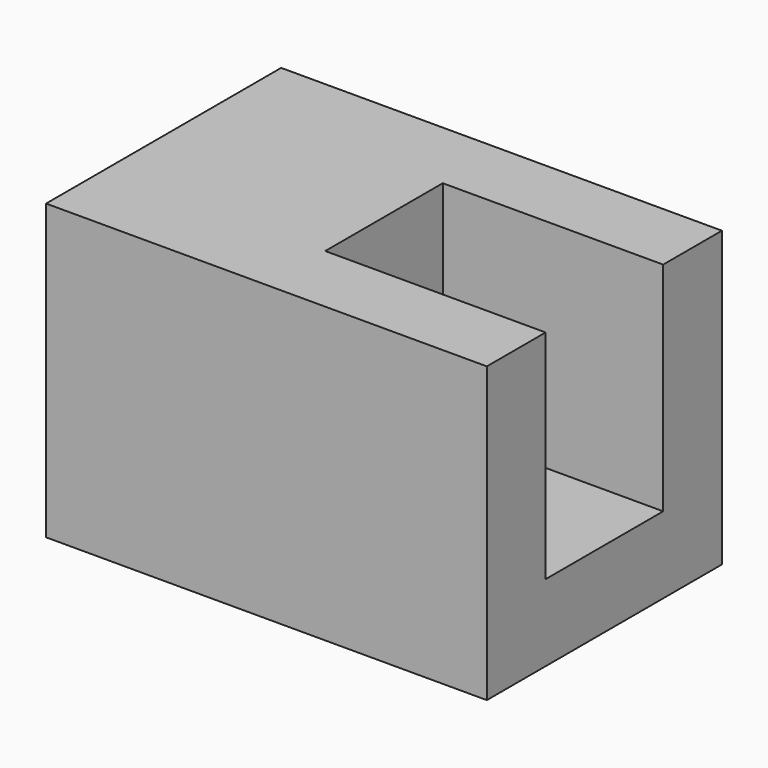
from build123d import *

# Parameters (mm, degrees)
F0_W     = 38.1
F0_H     = 25.4
F1_DEPTH = 25.4
F2_W     = 12.7
F2_H     = 19.05
F3_DEPTH = 19.05
F4_ANGLE = 180


with BuildPart() as f1:
    # F0 (on Top) → F1 (new body)
    with BuildSketch(Plane.XY):
        with Locations((19.05, 12.7)):
            Rectangle(F0_W, F0_H)
    extrude(amount=F1_DEPTH)

    # F2 (on Right) → F3 (cut)
    with BuildSketch(Plane.YZ):
        with Locations((12.7, 16.149852)):
            Rectangle(F2_W, F2_H)
    extrude(amount=F3_DEPTH, mode=Mode.SUBTRACT)


with BuildPart() as f1_1:
    # F4: moved
    add(f1.part.rotate(Axis((38.1, 0, 12.7), (0, 0, 1)), F4_ANGLE))


solid = f1_1.part
